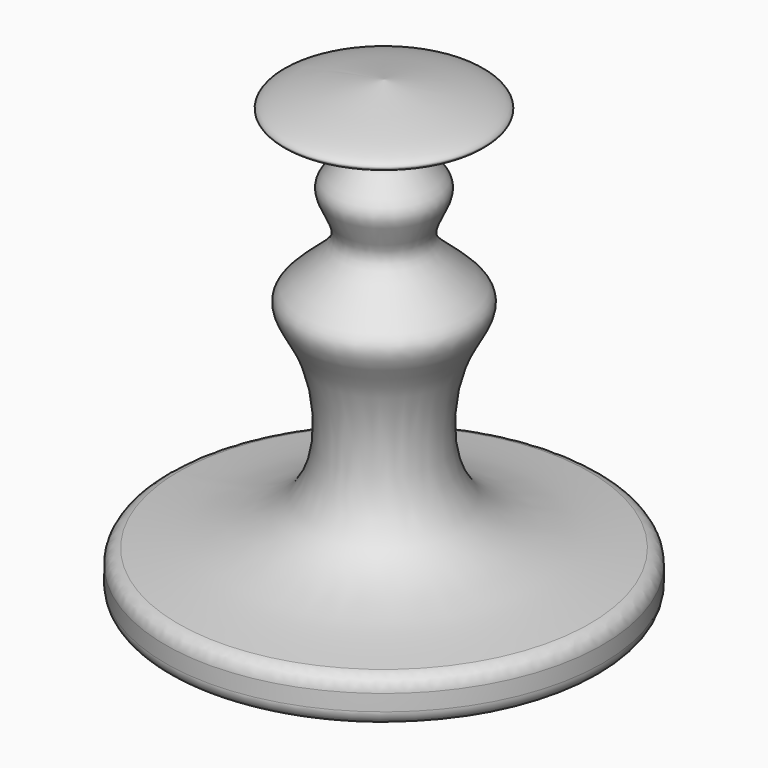
from build123d import *

# Parameters (mm, degrees)
F2_R = 2


with BuildPart() as f1:
    # F0 (on Front) → F1 (revolve)
    with BuildSketch(Plane.XZ):
        with BuildLine():
            Line((-30, -62.8278675502), (0, -62.8278675502))
            Line((0, -62.8278675502), (0, 0))
            add(Edge.make_bspline(
                [(-30, -56.8278675502), (-21.6771832703, -55.8524047983), (-5.9483757357, -54.0089344469), (-7.6687499092, -32.6614848949), (-14.9114570495, -25.683366494), (-2.2077965471, -19.5662949596), (-10.1395595374, -12.5886595248), (-0.1191529279, -6.7827192431), (-21.2486759933, -3.5586792064), (-7.5006197808, -1.256186487), (0, 0)],
                knots=[0, 0, 0, 0, 0.1753442905, 0.3313729819, 0.435385636, 0.5504435445, 0.6478916157, 0.7376134627, 0.8568480066, 1, 1, 1, 1], degree=3))
            Line((-30, -56.8278675502), (-30, -62.8278675502))
        make_face()
    revolve(axis=Axis((0, 0, -31.4139337751), (0, 0, -1)))

    # F2
    f2_edges = [f1.edges().sort_by_distance(p)[0] for p in [
        (30, 0, -56.827868),
        (-11.873813, 0, -26.129667),
        (30, 0, -62.827868),
        (-30, 0, -59.827868),
    ]]
    fillet(f2_edges, radius=F2_R)


solid = f1.part
